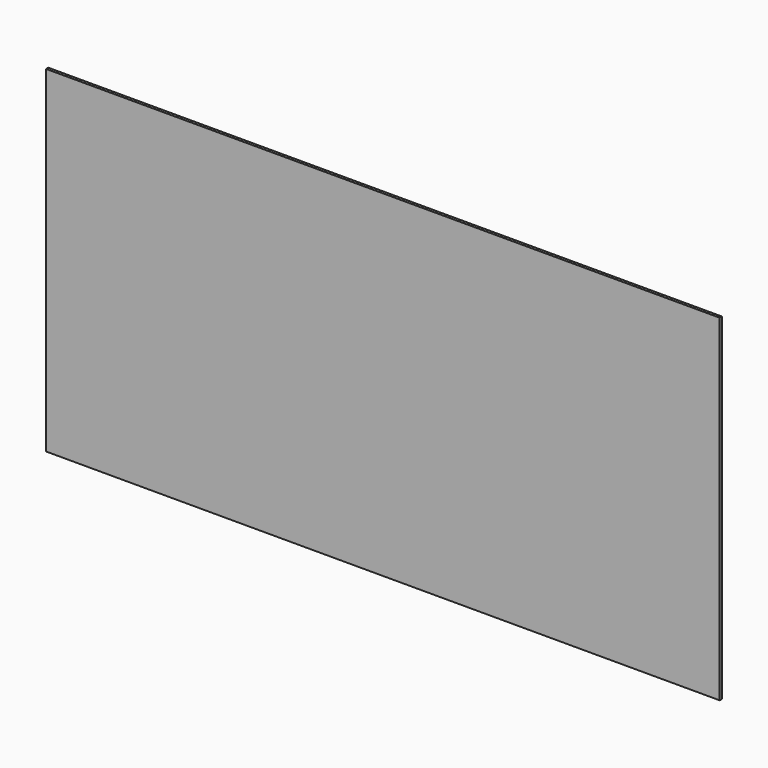
from build123d import *

# Parameters (mm, degrees)
SKETCH_W  = 2438.4
SKETCH_H  = 1219.2
PAD_DEPTH = 10


with BuildPart() as part:
    # Sketch → Pad (new body)
    with BuildSketch(Plane.XZ):
        with Locations((1219.2, 609.6)):
            Rectangle(SKETCH_W, SKETCH_H)
    extrude(amount=PAD_DEPTH)


solid = part.part
